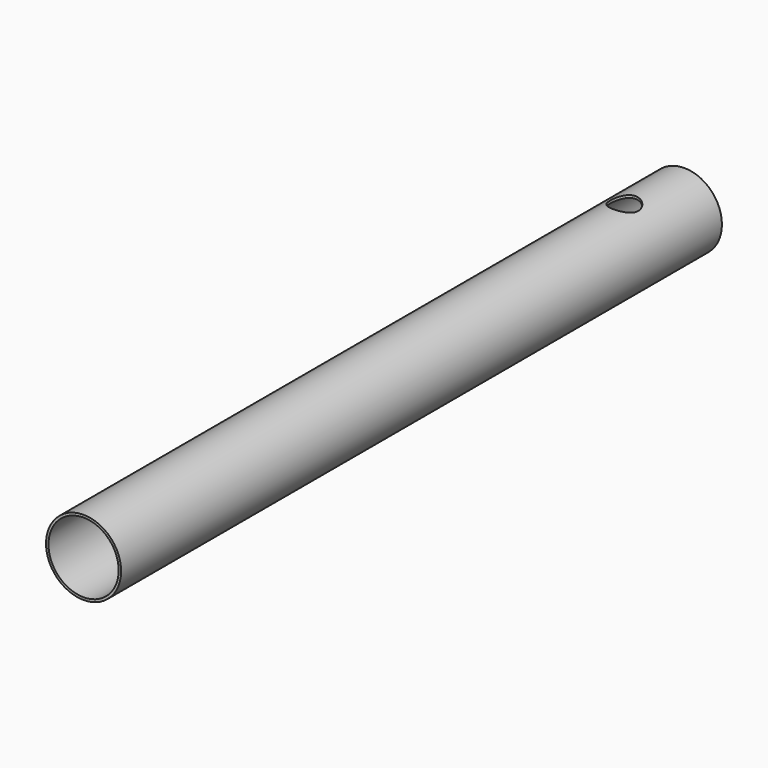
from build123d import *

# Parameters (mm, degrees)
F0_R     = 25.4
F0_R_2   = 23.749
F1_DEPTH = 254
F2_DEPTH = 254
F4_D     = 19.05
F4_DEPTH = 25.401
F5_D     = 19.05
F5_DEPTH = 25.4010001


with BuildPart() as f1:
    # F0 (on Front) → F1 (new body, symmetric)
    with BuildSketch(Plane.XZ):
        Circle(F0_R)
        Circle(F0_R_2, mode=Mode.SUBTRACT)
    extrude(amount=F1_DEPTH, both=True)

    # F0 (on Front) → F2 (join, symmetric)
    with BuildSketch(Plane.XZ):
        Circle(F0_R)
        Circle(F0_R_2, mode=Mode.SUBTRACT)
    extrude(amount=F2_DEPTH, both=True)

    # F4 (through all, one way)
    with BuildSketch(Plane(origin=(0, 0, 0), x_dir=(1, 0, 0), z_dir=(0, 0, -1))):
        with Locations((0, -203.2)):
            Circle(F4_D / 2)
    extrude(amount=-F4_DEPTH, mode=Mode.SUBTRACT)

    # F5 (through all, one way)
    with BuildSketch(Plane.XY):
        with Locations((0, -203.2)):
            Circle(F5_D / 2)
    extrude(amount=-F5_DEPTH, mode=Mode.SUBTRACT)


solid = f1.part
